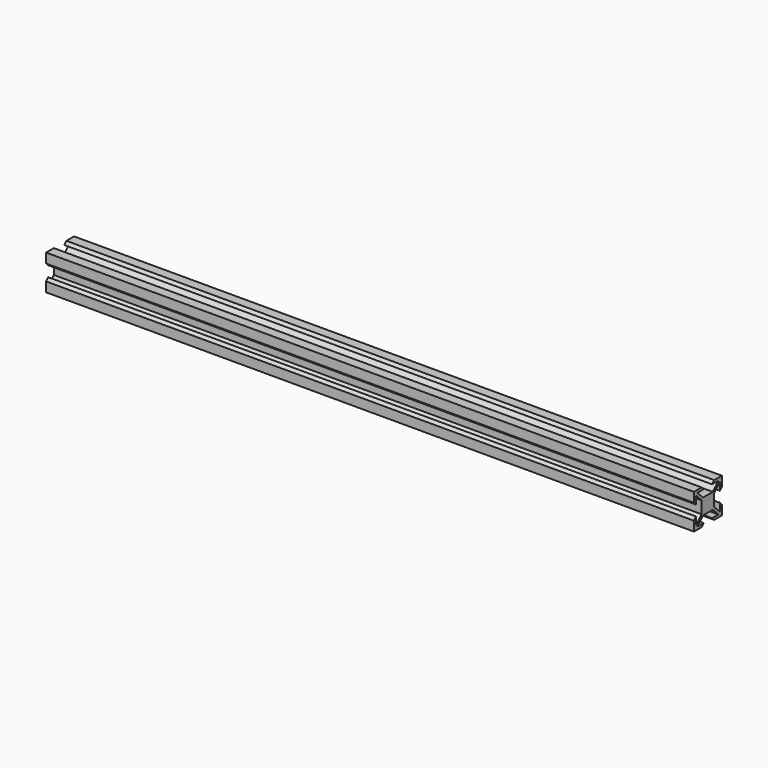
from build123d import *

# Parameters (mm, degrees)
F0_W     = 370
F0_H     = 20
F1_DEPTH = 10
F3_DEPTH = 370.001


with BuildPart() as f1:
    # F0 (on Top) → F1 (new body, symmetric)
    with BuildSketch(Plane.XY):
        Rectangle(F0_W, F0_H)
    extrude(amount=F1_DEPTH, both=True)

    # F2 (on face) → F3 (cut, through all)
    with BuildSketch(Plane.YZ.offset(185)):
        Polygon((-8.5, 3), (-10, 4.5), (-10, -4.5), (-8.5, -3), (-8.5, -7.5), (-4.5, -3.5), (-4.5, 0), (-4.5, 3.5), (-8.5, 7.5), align=None)
        Polygon((-3, -8.5), (-4.5, -10), (4.5, -10), (3, -8.5), (7.5, -8.5), (3.5, -4.5), (0, -4.5), (-3.5, -4.5), (-7.5, -8.5), align=None)
        Polygon((10, -4.5), (10, 4.5), (8.5, 3), (8.5, 7.5), (4.5, 3.5), (4.5, 0), (4.5, -3.5), (8.5, -7.5), (8.5, -3), align=None)
        Polygon((4.5, 10), (-4.5, 10), (-3, 8.5), (-7.5, 8.5), (-3.5, 4.5), (0, 4.5), (3.5, 4.5), (7.5, 8.5), (3, 8.5), align=None)
    extrude(amount=-F3_DEPTH, mode=Mode.SUBTRACT)


solid = f1.part
